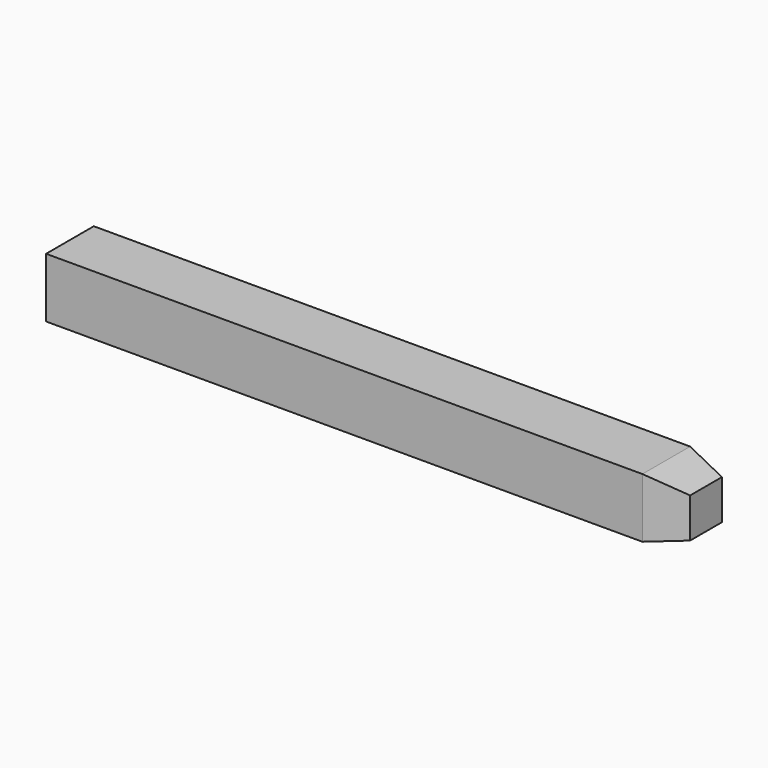
from build123d import *

# Parameters (mm, degrees)
SKETCH005_W  = 1.2
SKETCH005_H  = 1.2
SKETCH006_W  = 0.8
SKETCH006_H  = 0.8
SKETCH004_W  = 12
SKETCH004_H  = 1.2
PAD001_DEPTH = 0.6


with BuildPart() as loft_body:
    # Sketch005 → Loft section 0
    with BuildSketch(Plane.YZ):
        Rectangle(SKETCH005_W, SKETCH005_H)
    # Sketch006 → Loft section 1
    with BuildSketch(Plane.YZ.offset(0.8)):
        Rectangle(SKETCH006_W, SKETCH006_H)
    loft()


with BuildPart() as loft_body_1:
    # Loft placement: moved
    add(loft_body.part.moved(Location((7, 0, 0))))


with BuildPart() as fusion:
    # Sketch004 → Pad001 (new body, symmetric)
    with BuildSketch(Plane.XZ):
        with Locations((1, 0)):
            Rectangle(SKETCH004_W, SKETCH004_H)
    extrude(amount=PAD001_DEPTH, both=True)

    # Fusion: union Loft body
    add(loft_body_1.part)


with BuildPart() as fusion_1:
    # Fusion placement: moved
    add(fusion.part.moved(Location((0, 1.75, 2))))


solid = fusion_1.part
